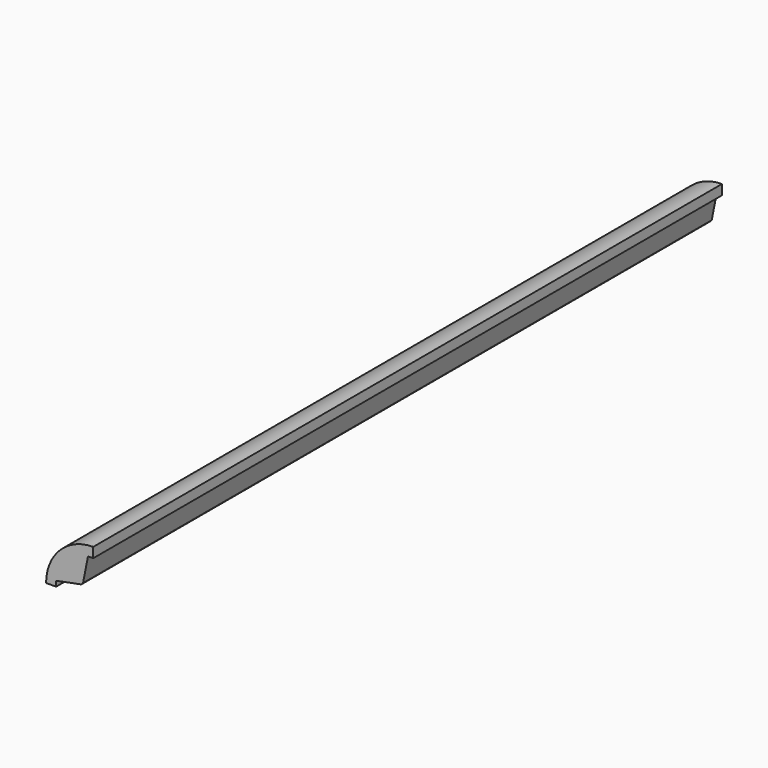
from build123d import *

# Parameters (mm, degrees)
F1_DEPTH = 1500


with BuildPart() as f1:
    # F0 (on Front) → F1 (new body)
    with BuildSketch(Plane.XZ):
        with BuildLine():
            Line((0, 70.887234), (0, 90))
            ThreePointArc((0, 90), (-63.63961, 63.63961), (-90, 0))
            Line((-90, 0), (-70.887234, 0))
            Line((-70.887234, 0), (-70.887234, 10))
            Line((-70.887234, 10), (-22.813418, 19.481991))
            ThreePointArc((-22.813418, 19.481991), (-21.213203, 21.213203), (-19.481991, 22.813418))
            Line((-19.481991, 22.813418), (-10, 70.887234))
            Line((-10, 70.887234), (0, 70.887234))
        make_face()
    extrude(amount=-F1_DEPTH)


solid = f1.part
